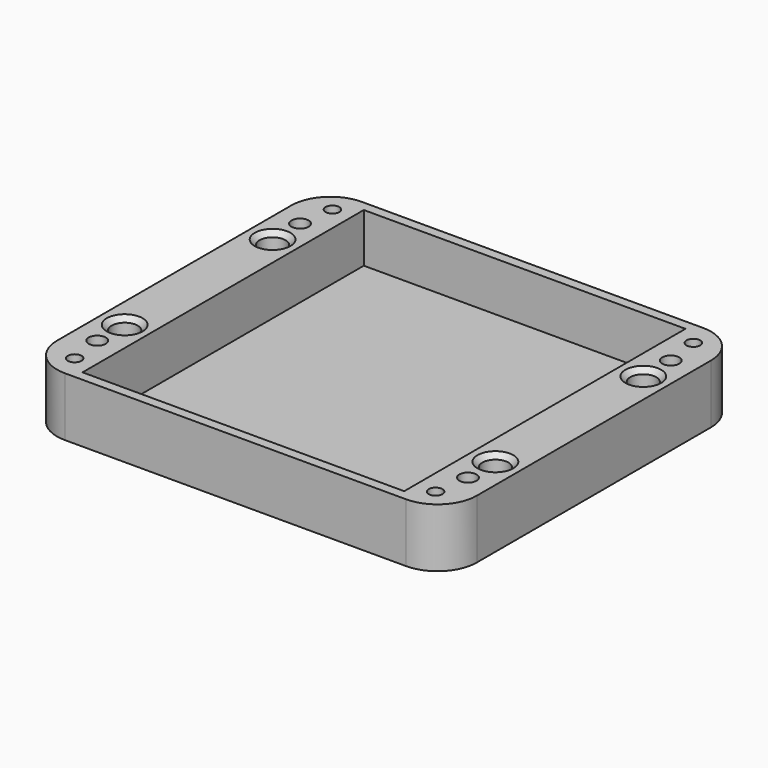
from build123d import *

# Parameters (mm, degrees)
F1_DEPTH = 2
F2_R     = 2.65
F2_W     = 65.6
F2_H     = 71.7
F3_DEPTH = 10
F4_R     = 1.4
F4_R_2   = 1.75
F5_DEPTH = 12
F6_SIZE  = 1


with BuildPart() as f1:
    # F0 (on Top) → F1 (new body)
    with BuildSketch(Plane.XY):
        with BuildLine():
            Line((34.8, 37.85), (-34.8, 37.85))
            ThreePointArc((-34.8, 37.85), (-40.456854, 35.506854), (-42.8, 29.85))
            Line((-42.8, 29.85), (-42.8, -29.85))
            ThreePointArc((-42.8, -29.85), (-40.456854, -35.506854), (-34.8, -37.85))
            Line((-34.8, -37.85), (34.8, -37.85))
            ThreePointArc((34.8, -37.85), (40.456854, -35.506854), (42.8, -29.85))
            Line((42.8, -29.85), (42.8, 29.85))
            ThreePointArc((42.8, 29.85), (40.456854, 35.506854), (34.8, 37.85))
        make_face()
    extrude(amount=F1_DEPTH)

    # F2 (on face) → F3 (join)
    with BuildSketch(Plane.XY.offset(2)):
        with BuildLine():
            ThreePointArc((-34.8, 37.85), (-40.456854, 35.506854), (-42.8, 29.85))
            Line((-42.8, 29.85), (-42.8, -29.85))
            ThreePointArc((-42.8, -29.85), (-40.456854, -35.506854), (-34.8, -37.85))
            Line((-34.8, -37.85), (34.8, -37.85))
            ThreePointArc((34.8, -37.85), (40.456854, -35.506854), (42.8, -29.85))
            Line((42.8, -29.85), (42.8, 29.85))
            ThreePointArc((42.8, 29.85), (40.456854, 35.506854), (34.8, 37.85))
            Line((34.8, 37.85), (-34.8, 37.85))
        make_face()
        with Locations((-37.8, -18.85)):
            Circle(F2_R, mode=Mode.SUBTRACT)
        with Locations((37.8, -18.85)):
            Circle(F2_R, mode=Mode.SUBTRACT)
        with Locations((-37.8, 18.85)):
            Circle(F2_R, mode=Mode.SUBTRACT)
        Rectangle(F2_W, F2_H, mode=Mode.SUBTRACT)
        with Locations((37.8, 18.85)):
            Circle(F2_R, mode=Mode.SUBTRACT)
    extrude(amount=F3_DEPTH)

    # F4 (on face) → F5 (cut, through all)
    with BuildSketch(Plane.XY.offset(12)):
        with Locations((-36.8, -32.85)):
            Circle(F4_R)
        with Locations((36.8, -32.85)):
            Circle(F4_R)
        with Locations((-36.8, 32.85)):
            Circle(F4_R)
        with Locations((36.8, 32.85)):
            Circle(F4_R)
        with Locations((-37.8, -25.85)):
            Circle(F4_R_2)
        with Locations((37.8, -25.85)):
            Circle(F4_R_2)
        with Locations((-37.8, 25.85)):
            Circle(F4_R_2)
        with Locations((37.8, 25.85)):
            Circle(F4_R_2)
    extrude(amount=-F5_DEPTH, mode=Mode.SUBTRACT)

    # F6
    f6_edges = [f1.edges().sort_by_distance(p)[0] for p in [
        (-40.45, 18.85, 12),
        (35.15, 18.85, 12),
        (35.15, -18.85, 12),
        (-40.45, -18.85, 12),
    ]]
    chamfer(f6_edges, length=F6_SIZE)


solid = f1.part
